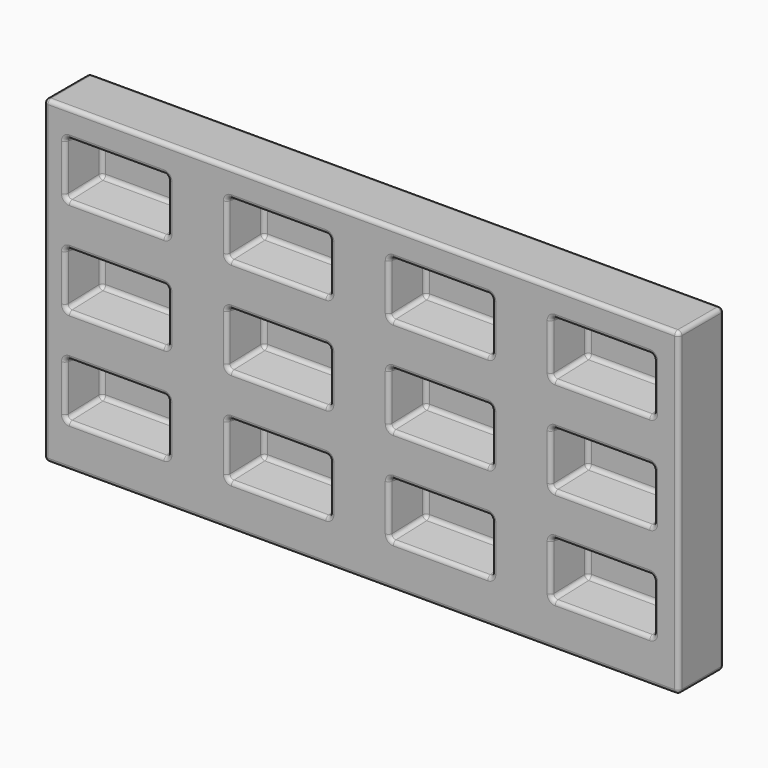
from build123d import *

# Parameters (mm, degrees)
SKETCH001_W   = 64.082153
SKETCH001_H   = 34.250805
SKETCH002_W   = 57.985962
SKETCH002_H   = 28.034157
ARRAY_X_COUNT = 4
ARRAY_X_PITCH = 100
ARRAY_Z_COUNT = 3
ARRAY_Z_PITCH = 60
SKETCH_W      = 392.01886
SKETCH_H      = 197.196228
PAD_DEPTH     = 35
FILLET_R      = 2.5


with BuildPart() as array:
    # Sketch001 → AdditiveLoft section 0
    with BuildSketch(Plane.XZ.offset(36)):
        with Locations((-151.081527, 68.668436)):
            Rectangle(SKETCH001_W, SKETCH001_H)
    # Sketch002 → AdditiveLoft section 1
    with BuildSketch(Plane.XZ.offset(10)):
        with Locations((-151.109222, 69.003383)):
            Rectangle(SKETCH002_W, SKETCH002_H)
    loft()

    # Array X: Array ×4


with BuildPart() as array_1:
    add(array.part)
    with Locations(*[(i * ARRAY_X_PITCH, 0, 0) for i in range(1, ARRAY_X_COUNT)]):
        add(array.part)

    # Array Z: Array ×3


with BuildPart() as array_2:
    add(array_1.part)
    with Locations(*[(0, 0, i * ARRAY_Z_PITCH) for i in range(1, ARRAY_Z_COUNT)]):
        add(array_1.part)


with BuildPart() as array_3:
    # Array placement: moved
    add(array_2.part.moved(Location((0, 0, -124))))


with BuildPart() as fillet_body:
    # Sketch → Pad (new body)
    with BuildSketch(Plane.XZ):
        Rectangle(SKETCH_W, SKETCH_H)
    extrude(amount=PAD_DEPTH)

    # Cut: cut Array
    add(array_3.part, mode=Mode.SUBTRACT)

    # Fillet
    fillet_edges = [fillet_body.edges().sort_by_distance(p)[0] for p in [
        (-196.00943, -17.5, -98.598114),
        (-196.00943, -17.5, 98.598114),
        (-196.00943, 0, 0),
        (-196.00943, -35, 0),
        (196.00943, -17.5, -98.598114),
        (0, 0, -98.598114),
        (0, -35, -98.598114),
        (196.00943, -17.5, 98.598114),
        (0, 0, 98.598114),
        (0, -35, 98.598114),
        (196.00943, 0, 0),
        (196.00943, -35, 0),
        (-119.158751, -35, -55.318681),
        (-151.082593, -35, -72.324532),
        (-183.006435, -35, -55.318681),
        (-151.082593, -35, -38.312829),
        (-19.158751, -35, -55.318681),
        (-51.082593, -35, -72.324532),
        (-83.006435, -35, -55.318681),
        (-51.082593, -35, -38.312829),
        (-119.158751, -35, 4.681319),
        (-151.082593, -35, -12.324532),
        (-183.006435, -35, 4.681319),
        (-151.082593, -35, 21.687171),
        (-119.158751, -35, 64.681319),
        (-151.082593, -35, 47.675468),
        (-183.006435, -35, 64.681319),
        (-151.082593, -35, 81.687171),
        (-19.158751, -35, 4.681319),
        (-51.082593, -35, -12.324532),
        (-83.006435, -35, 4.681319),
        (-51.082593, -35, 21.687171),
        (-19.158751, -35, 64.681319),
        (-51.082593, -35, 47.675468),
        (-83.006435, -35, 64.681319),
        (-51.082593, -35, 81.687171),
        (80.841249, -35, -55.318681),
        (48.917407, -35, -72.324532),
        (16.993565, -35, -55.318681),
        (48.917407, -35, -38.312829),
        (180.841249, -35, -55.318681),
        (148.917407, -35, -72.324532),
        (116.993565, -35, -55.318681),
        (148.917407, -35, -38.312829),
        (80.841249, -35, 4.681319),
        (48.917407, -35, -12.324532),
        (16.993565, -35, 4.681319),
        (48.917407, -35, 21.687171),
        (80.841249, -35, 64.681319),
        (48.917407, -35, 47.675468),
        (16.993565, -35, 64.681319),
        (48.917407, -35, 81.687171),
        (180.841249, -35, 4.681319),
        (148.917407, -35, -12.324532),
        (116.993565, -35, 4.681319),
        (148.917407, -35, 21.687171),
        (180.841249, -35, 64.681319),
        (148.917407, -35, 47.675468),
        (116.993565, -35, 64.681319),
        (148.917407, -35, 81.687171),
        (-120.637496, -22.5, -39.646184),
        (-122.116241, -10, -54.996617),
        (-120.637496, -22.5, -70.669114),
        (-151.109222, -10, -69.013695),
        (-181.554319, -22.5, -70.669114),
        (-180.102203, -10, -54.996617),
        (-181.554319, -22.5, -39.646184),
        (-151.109222, -10, -40.979538),
        (-20.637496, -22.5, -39.646184),
        (-22.116241, -10, -54.996617),
        (-20.637496, -22.5, -70.669114),
        (-51.109222, -10, -69.013695),
        (-81.554319, -22.5, -70.669114),
        (-80.102203, -10, -54.996617),
        (-81.554319, -22.5, -39.646184),
        (-51.109222, -10, -40.979538),
        (-120.637496, -22.5, 20.353816),
        (-122.116241, -10, 5.003383),
        (-120.637496, -22.5, -10.669114),
        (-151.109222, -10, -9.013695),
        (-181.554319, -22.5, -10.669114),
        (-180.102203, -10, 5.003383),
        (-181.554319, -22.5, 20.353816),
        (-151.109222, -10, 19.020462),
        (-120.637496, -22.5, 80.353816),
        (-122.116241, -10, 65.003383),
        (-120.637496, -22.5, 49.330886),
        (-151.109222, -10, 50.986305),
        (-181.554319, -22.5, 49.330886),
        (-180.102203, -10, 65.003383),
        (-181.554319, -22.5, 80.353816),
        (-151.109222, -10, 79.020462),
        (-20.637496, -22.5, 20.353816),
        (-22.116241, -10, 5.003383),
        (-20.637496, -22.5, -10.669114),
        (-51.109222, -10, -9.013695),
        (-81.554319, -22.5, -10.669114),
        (-80.102203, -10, 5.003383),
        (-81.554319, -22.5, 20.353816),
        (-51.109222, -10, 19.020462),
        (-20.637496, -22.5, 80.353816),
        (-22.116241, -10, 65.003383),
        (-20.637496, -22.5, 49.330886),
        (-51.109222, -10, 50.986305),
        (-81.554319, -22.5, 49.330886),
        (-80.102203, -10, 65.003383),
        (-81.554319, -22.5, 80.353816),
        (-51.109222, -10, 79.020462),
        (79.362504, -22.5, -39.646184),
        (77.883759, -10, -54.996617),
        (79.362504, -22.5, -70.669114),
        (48.890778, -10, -69.013695),
        (18.445681, -22.5, -70.669114),
        (19.897797, -10, -54.996617),
        (18.445681, -22.5, -39.646184),
        (48.890778, -10, -40.979538),
        (179.362504, -22.5, -39.646184),
        (177.883759, -10, -54.996617),
        (179.362504, -22.5, -70.669114),
        (148.890778, -10, -69.013695),
        (118.445681, -22.5, -70.669114),
        (119.897797, -10, -54.996617),
        (118.445681, -22.5, -39.646184),
        (148.890778, -10, -40.979538),
        (79.362504, -22.5, 20.353816),
        (77.883759, -10, 5.003383),
        (79.362504, -22.5, -10.669114),
        (48.890778, -10, -9.013695),
        (18.445681, -22.5, -10.669114),
        (19.897797, -10, 5.003383),
        (18.445681, -22.5, 20.353816),
        (48.890778, -10, 19.020462),
        (79.362504, -22.5, 80.353816),
        (77.883759, -10, 65.003383),
        (79.362504, -22.5, 49.330886),
        (48.890778, -10, 50.986305),
        (18.445681, -22.5, 49.330886),
        (19.897797, -10, 65.003383),
        (18.445681, -22.5, 80.353816),
        (48.890778, -10, 79.020462),
        (179.362504, -22.5, 20.353816),
        (177.883759, -10, 5.003383),
        (179.362504, -22.5, -10.669114),
        (148.890778, -10, -9.013695),
        (118.445681, -22.5, -10.669114),
        (119.897797, -10, 5.003383),
        (118.445681, -22.5, 20.353816),
        (148.890778, -10, 19.020462),
        (179.362504, -22.5, 80.353816),
        (177.883759, -10, 65.003383),
        (179.362504, -22.5, 49.330886),
        (148.890778, -10, 50.986305),
        (118.445681, -22.5, 49.330886),
        (119.897797, -10, 65.003383),
        (118.445681, -22.5, 80.353816),
        (148.890778, -10, 79.020462),
    ]]
    fillet(fillet_edges, radius=FILLET_R)


solid = fillet_body.part
